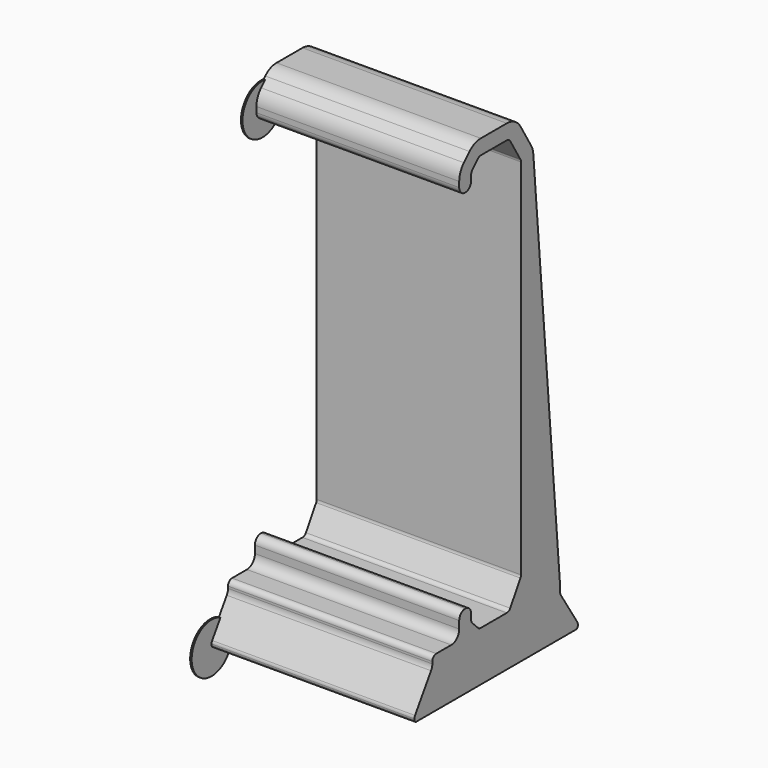
from build123d import *

# Parameters (mm, degrees)
F1_DEPTH = 41
F2_R     = 5
F3_DEPTH = 0.3


with BuildPart() as f1:
    # F0 (on Right) → F1 (new body)
    with BuildSketch(Plane.YZ):
        with BuildLine():
            Line((-20, 0), (0, 0))
            Line((0, 0), (20, 0))
            ThreePointArc((20, 0), (20.353553, 0.146447), (20.5, 0.5))
            Line((20.5, 0.5), (20.5, 0.706298))
            ThreePointArc((20.5, 0.706298), (20.459473, 0.988097), (20.341178, 1.247056))
            Line((20.341178, 1.247056), (16.317643, 7.505889))
            ThreePointArc((16.317643, 7.505889), (16.081053, 8.023805), (16, 8.587404))
            Line((16, 8.587404), (16, 9.978767))
            ThreePointArc((16, 9.978767), (15.998199, 10.063623), (15.992799, 10.148327))
            Line((15.992799, 10.148327), (9.334921, 88.3966))
            ThreePointArc((9.334921, 88.3966), (9.155408, 89.287807), (8.779294, 90.115462))
            Line((8.779294, 90.115462), (6.113781, 94.557983))
            ThreePointArc((6.113781, 94.557983), (4.654605, 95.9808), (2.68381, 96.5))
            Line((2.68381, 96.5), (-3.835786, 96.5))
            ThreePointArc((-3.835786, 96.5), (-5.36652, 96.195518), (-6.664214, 95.328427))
            Line((-6.664214, 95.328427), (-8.078427, 93.914214))
            ThreePointArc((-8.078427, 93.914214), (-8.945518, 92.61652), (-9.25, 91.085786))
            Line((-9.25, 91.085786), (-9.25, 90))
            ThreePointArc((-9.25, 90), (-8.81066, 88.93934), (-7.75, 88.5))
            ThreePointArc((-7.75, 88.5), (-6.68934, 88.93934), (-6.25, 90))
            Line((-6.25, 90), (-6.25, 91.085786))
            ThreePointArc((-6.25, 91.085786), (-6.17388, 91.46847), (-5.957107, 91.792893))
            Line((-5.957107, 91.792893), (-4.542893, 93.207107))
            ThreePointArc((-4.542893, 93.207107), (-4.21847, 93.42388), (-3.835786, 93.5))
            Line((-3.835786, 93.5), (2.68381, 93.5))
            ThreePointArc((2.68381, 93.5), (3.176508, 93.3702), (3.541303, 93.014496))
            Line((3.541303, 93.014496), (6.107493, 88.737512))
            ThreePointArc((6.107493, 88.737512), (6.213715, 88.48995), (6.25, 88.223016))
            Line((6.25, 88.223016), (6.25, 15.276984))
            ThreePointArc((6.25, 15.276984), (6.213715, 15.01005), (6.107493, 14.762488))
            Line((6.107493, 14.762488), (3.541303, 10.485504))
            ThreePointArc((3.541303, 10.485504), (3.176508, 10.1298), (2.68381, 10))
            Line((2.68381, 10), (0, 10))
            Line((0, 10), (-3.835786, 10))
            ThreePointArc((-3.835786, 10), (-4.21847, 10.07612), (-4.542893, 10.292893))
            Line((-4.542893, 10.292893), (-5.957107, 11.707107))
            ThreePointArc((-5.957107, 11.707107), (-6.17388, 12.03153), (-6.25, 12.414214))
            Line((-6.25, 12.414214), (-6.25, 13.5))
            ThreePointArc((-6.25, 13.5), (-6.68934, 14.56066), (-7.75, 15))
            ThreePointArc((-7.75, 15), (-8.81066, 14.56066), (-9.25, 13.5))
            Line((-9.25, 13.5), (-9.25, 12))
            ThreePointArc((-9.25, 12), (-9.835786, 10.585786), (-11.25, 10))
            Line((-11.25, 10), (-15, 10))
            ThreePointArc((-15, 10), (-15.707107, 9.707107), (-16, 9))
            Line((-16, 9), (-16, 8.587404))
            ThreePointArc((-16, 8.587404), (-16.081053, 8.023805), (-16.317643, 7.505889))
            Line((-16.317643, 7.505889), (-20.341178, 1.247056))
            ThreePointArc((-20.341178, 1.247056), (-20.459473, 0.988097), (-20.5, 0.706298))
            Line((-20.5, 0.706298), (-20.5, 0.5))
            ThreePointArc((-20.5, 0.5), (-20.353553, 0.146447), (-20, 0))
        make_face()
    extrude(amount=F1_DEPTH)

    # F2 (on Right) → F3 (join)
    with BuildSketch(Plane.YZ):
        with Locations((-20.5, 0)):
            Circle(F2_R)
        with Locations((20.5, 0)):
            Circle(F2_R)
        with Locations((-7.75, 90)):
            Circle(F2_R)
    extrude(amount=F3_DEPTH)


solid = f1.part
